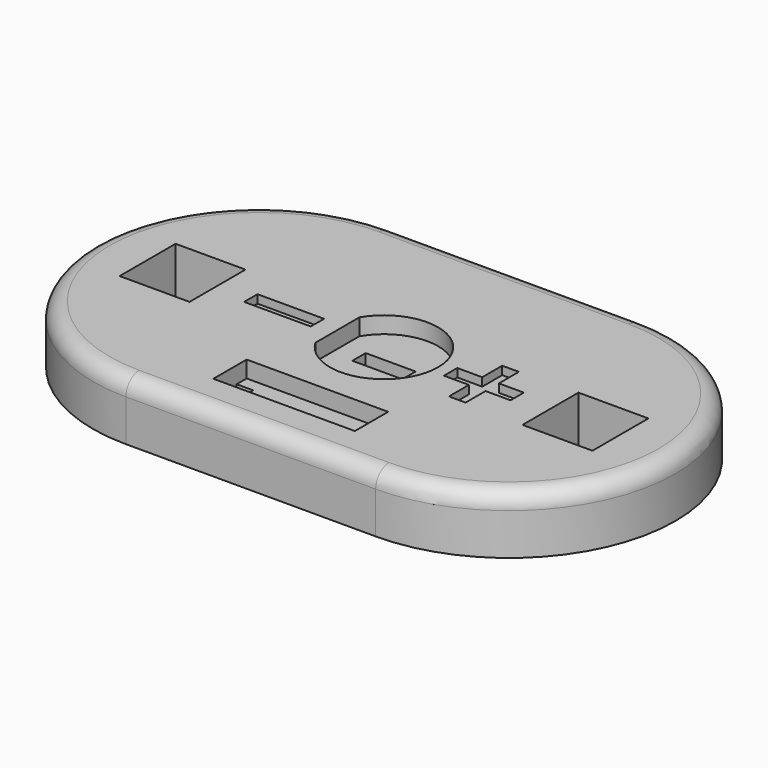
from build123d import *

# Parameters (mm, degrees)
PAD_DEPTH       = 3.5
FILLET_R        = 1
POCKET_DEPTH    = 1
SKETCH007_W     = 3
SKETCH007_H     = 1
POCKET001_DEPTH = 2.501
SKETCH008_W     = 8.5
SKETCH008_H     = 2.5
POCKET002_DEPTH = 1
SKETCH009_W     = 1
SKETCH009_H     = 1
POCKET003_DEPTH = 5
SKETCH010_W     = 10.5
SKETCH010_H     = 1
POCKET004_DEPTH = 1.5
SKETCH001_W     = 4.2
SKETCH001_H     = 4.2
POCKET005_DEPTH = 3
SKETCH006_W     = 4
SKETCH006_H     = 1
POCKET006_DEPTH = 0.5


with BuildPart() as part:
    # Sketch → Pad (new body)
    with BuildSketch(Plane.XY):
        with BuildLine():
            ThreePointArc((-7.5, 10), (-17.5, 0), (-7.5, -10))
            Line((-7.5, -10), (7.5, -10))
            ThreePointArc((7.5, -10), (17.5, 0), (7.5, 10))
            Line((-7.5, 10), (7.5, 10))
        make_face()
    extrude(amount=PAD_DEPTH)

    # Fillet
    fillet_edges = [part.edges().sort_by_distance(p)[0] for p in [
        (0, 10, 3.5),
        (0, -10, 3.5),
        (17.5, 0, 3.5),
        (-17.5, 0, 3.5),
    ]]
    fillet(fillet_edges, radius=FILLET_R)

    # Sketch003 → Pocket (cut)
    with BuildSketch(Plane.XY.offset(3.5)):
        with BuildLine():
            ThreePointArc((-2.8, -1.65), (3.25, 0), (-2.8, 1.65))
            Line((-2.8, 1.65), (-2.8, -1.65))
        make_face()
    extrude(amount=-POCKET_DEPTH, mode=Mode.SUBTRACT)

    # Sketch007 → Pocket001 (cut, through all)
    with BuildSketch(Plane.XY.offset(2.5)):
        Rectangle(SKETCH007_W, SKETCH007_H)
    extrude(amount=-POCKET001_DEPTH, mode=Mode.SUBTRACT)

    # Sketch008 → Pocket002 (cut)
    with BuildSketch(Plane.XY.offset(3.5)):
        with Locations((0, -6.25)):
            Rectangle(SKETCH008_W, SKETCH008_H)
    extrude(amount=-POCKET002_DEPTH, mode=Mode.SUBTRACT)

    # Sketch009 → Pocket003 (cut)
    with BuildSketch(Plane.XY.offset(2.5)):
        with Locations((-3.75, -6.25)):
            Rectangle(SKETCH009_W, SKETCH009_H)
        with Locations((3.75, -6.25)):
            Rectangle(SKETCH009_W, SKETCH009_H)
    extrude(amount=-POCKET003_DEPTH, mode=Mode.SUBTRACT)

    # Sketch010 → Pocket004 (cut)
    with BuildSketch(Plane(origin=(0, 0, 0), x_dir=(1, 0, 0), z_dir=(0, 0, -1))):
        Polygon((3.643237, 5.75), (11.696618, -0.397441), (12.303382, 0.397441), (4.25, 6.544883), align=None)
        with Locations((-6.75, 0)):
            Rectangle(SKETCH010_W, SKETCH010_H)
        Polygon((-3.25, 5.75), (0, 5.75), (0, 0.5), (1.5, 0.5), (1.5, 6.75), (-3.25, 6.75), align=None)
    extrude(amount=-POCKET004_DEPTH, mode=Mode.SUBTRACT)

    # Sketch001 → Pocket005 (cut)
    with BuildSketch(Plane.XY.offset(3.5)):
        with Locations((-12.1, 0)):
            Rectangle(SKETCH001_W, SKETCH001_H)
        with Locations((12.1, 0)):
            Rectangle(SKETCH001_W, SKETCH001_H)
    extrude(amount=-POCKET005_DEPTH, mode=Mode.SUBTRACT)

    # Sketch006 → Pocket006 (cut)
    with BuildSketch(Plane.XY.offset(3.5)):
        with Locations((-6, 0)):
            Rectangle(SKETCH006_W, SKETCH006_H)
        Polygon((4, 0.5), (5.5, 0.5), (5.5, 2), (6.5, 2), (6.5, 0.5), (8, 0.5), (8, -0.5), (6.5, -0.5), (6.5, -2), (5.5, -2), (5.5, -0.5), (4, -0.5), align=None)
    extrude(amount=-POCKET006_DEPTH, mode=Mode.SUBTRACT)


solid = part.part
